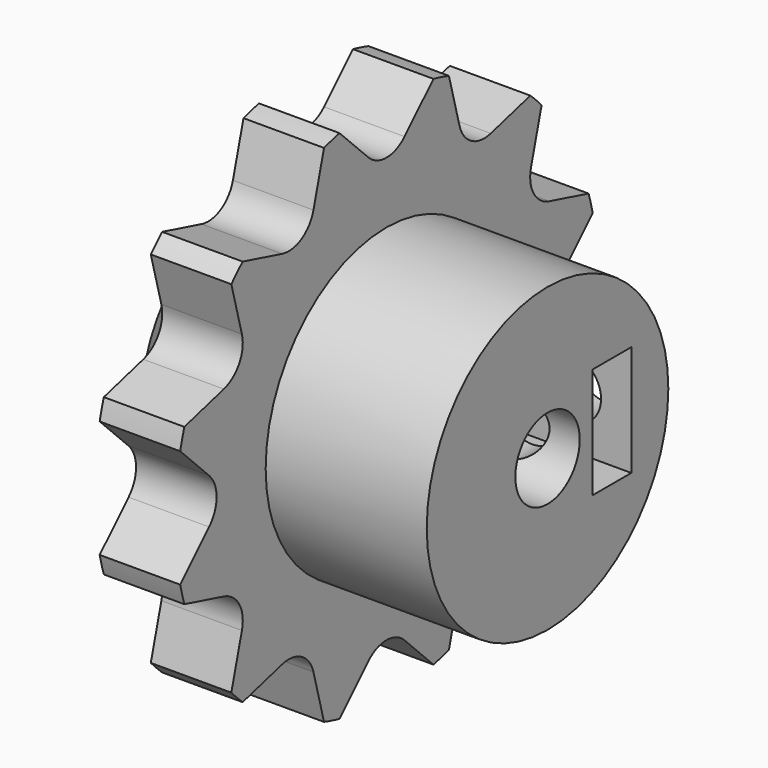
from build123d import *

# Parameters (mm, degrees)
F0_R          = 7.5
F0_R_2        = 2
F1_DEPTH      = 12
F1_DEPTH_BACK = 3
F2_DEPTH      = 4
F3_DEPTH      = 3
F4_SIZE       = 1
F5_W          = 2.4
F5_H          = 5.5
F6_DEPTH      = 7
F7_R          = 1.5
F8_DEPTH      = 10.0078377589
F8_DEPTH_BACK = 1.4781244445


with BuildPart() as f1:
    # F0 (on Right) → F1 (new body, two sides)
    with BuildSketch(Plane.YZ) as f1_sk:
        Circle(F0_R)
        Circle(F0_R_2, mode=Mode.SUBTRACT)
    extrude(amount=F1_DEPTH)
    extrude(f1_sk.sketch, amount=-F1_DEPTH_BACK)

    # F0 (on Right) → F2 (join)
    with BuildSketch(Plane.YZ):
        with BuildLine():
            Line((-1.1225320151, 11.0123179849), (-2.9170517891, 12.8068377589))
            ThreePointArc((-2.9170517891, 12.8068377589), (-3.3995493346, 12.6872908394), (-3.8771779259, 12.5495727359))
            Line((-3.8771779259, 12.5495727359), (-4.5340177508, 10.098213137))
            ThreePointArc((-4.5340177508, 10.098213137), (-5.273675, 9.1342730426), (-6.4783002341, 8.9756811219))
            Line((-6.4783002341, 8.9756811219), (-8.929659833, 9.6325209468))
            ThreePointArc((-8.929659833, 9.6325209468), (-9.2877415049, 9.2877415049), (-9.6325209468, 8.929659833))
            Line((-9.6325209468, 8.929659833), (-8.9756811219, 6.4783002341))
            ThreePointArc((-8.9756811219, 6.4783002341), (-9.1342730426, 5.273675), (-10.098213137, 4.5340177508))
            Line((-10.098213137, 4.5340177508), (-12.5495727359, 3.8771779259))
            ThreePointArc((-12.5495727359, 3.8771779259), (-12.6872908394, 3.3995493346), (-12.8068377589, 2.9170517891))
            Line((-12.8068377589, 2.9170517891), (-11.0123179849, 1.1225320151))
            ThreePointArc((-11.0123179849, 1.1225320151), (-10.54735, 0), (-11.0123179849, -1.1225320151))
            Line((-11.0123179849, -1.1225320151), (-12.8068377589, -2.9170517891))
            ThreePointArc((-12.8068377589, -2.9170517891), (-12.6872908394, -3.3995493346), (-12.5495727359, -3.8771779259))
            Line((-12.5495727359, -3.8771779259), (-10.098213137, -4.5340177508))
            ThreePointArc((-10.098213137, -4.5340177508), (-9.1342730426, -5.273675), (-8.9756811219, -6.4783002341))
            Line((-8.9756811219, -6.4783002341), (-9.6325209468, -8.929659833))
            ThreePointArc((-9.6325209468, -8.929659833), (-9.2877415049, -9.2877415049), (-8.929659833, -9.6325209468))
            Line((-8.929659833, -9.6325209468), (-6.4783002341, -8.9756811219))
            ThreePointArc((-6.4783002341, -8.9756811219), (-5.273675, -9.1342730426), (-4.5340177508, -10.098213137))
            Line((-4.5340177508, -10.098213137), (-3.8771779259, -12.5495727359))
            ThreePointArc((-3.8771779259, -12.5495727359), (-3.3995493346, -12.6872908394), (-2.9170517891, -12.8068377589))
            Line((-2.9170517891, -12.8068377589), (-1.1225320151, -11.0123179849))
            ThreePointArc((-1.1225320151, -11.0123179849), (0, -10.54735), (1.1225320151, -11.0123179849))
            Line((1.1225320151, -11.0123179849), (2.9170517891, -12.8068377589))
            ThreePointArc((2.9170517891, -12.8068377589), (3.3995493346, -12.6872908394), (3.8771779259, -12.5495727359))
            Line((3.8771779259, -12.5495727359), (4.5340177508, -10.098213137))
            ThreePointArc((4.5340177508, -10.098213137), (5.273675, -9.1342730426), (6.4783002341, -8.9756811219))
            Line((6.4783002341, -8.9756811219), (8.929659833, -9.6325209468))
            ThreePointArc((8.929659833, -9.6325209468), (9.2877415049, -9.2877415049), (9.6325209468, -8.929659833))
            Line((9.6325209468, -8.929659833), (8.9756811219, -6.4783002341))
            ThreePointArc((8.9756811219, -6.4783002341), (9.1342730426, -5.273675), (10.098213137, -4.5340177508))
            Line((10.098213137, -4.5340177508), (12.5495727359, -3.8771779259))
            ThreePointArc((12.5495727359, -3.8771779259), (12.6872908394, -3.3995493346), (12.8068377589, -2.9170517891))
            Line((12.8068377589, -2.9170517891), (11.0123179849, -1.1225320151))
            ThreePointArc((11.0123179849, -1.1225320151), (10.54735, 0), (11.0123179849, 1.1225320151))
            Line((11.0123179849, 1.1225320151), (12.8068377589, 2.9170517891))
            ThreePointArc((12.8068377589, 2.9170517891), (12.6872908394, 3.3995493346), (12.5495727359, 3.8771779259))
            Line((12.5495727359, 3.8771779259), (10.098213137, 4.5340177508))
            ThreePointArc((10.098213137, 4.5340177508), (9.1342730426, 5.273675), (8.9756811219, 6.4783002341))
            Line((8.9756811219, 6.4783002341), (9.6325209468, 8.929659833))
            ThreePointArc((9.6325209468, 8.929659833), (9.2877415049, 9.2877415049), (8.929659833, 9.6325209468))
            Line((8.929659833, 9.6325209468), (6.4783002341, 8.9756811219))
            ThreePointArc((6.4783002341, 8.9756811219), (5.273675, 9.1342730426), (4.5340177508, 10.098213137))
            Line((4.5340177508, 10.098213137), (3.8771779259, 12.5495727359))
            ThreePointArc((3.8771779259, 12.5495727359), (3.3995493346, 12.6872908394), (2.9170517891, 12.8068377589))
            Line((2.9170517891, 12.8068377589), (1.1225320151, 11.0123179849))
            ThreePointArc((1.1225320151, 11.0123179849), (0, 10.54735), (-1.1225320151, 11.0123179849))
        make_face()
        Circle(F0_R, mode=Mode.SUBTRACT)
        Circle(F0_R_2)
    extrude(amount=F2_DEPTH)

    # F3 (add): a face of the model
    f3_faces = [f1.faces().sort_by_distance(p)[0] for p in [
        (0, 0, 0),
    ]]
    extrude(f3_faces, amount=F3_DEPTH)

    # F4
    f4_edges = [f1.edges().sort_by_distance(p)[0] for p in [
        (-3, -7.5, 0),
    ]]
    chamfer(f4_edges, length=F4_SIZE)

    # F5 (on face) → F6 (cut)
    with BuildSketch(Plane.YZ.offset(12)):
        with Locations((4, 0)):
            Rectangle(F5_W, F5_H)
    extrude(amount=-F6_DEPTH, mode=Mode.SUBTRACT)

    # F7 (on face) → F8 (cut, two sides)
    with BuildSketch(Plane(origin=(0, 2.8, 0), x_dir=(-1, 0, 0), z_dir=(0, 1, 0))) as f8_sk:
        with Locations((-9, 0)):
            Circle(F7_R)
    extrude(amount=F8_DEPTH, mode=Mode.SUBTRACT)
    extrude(f8_sk.sketch, amount=-F8_DEPTH_BACK, mode=Mode.SUBTRACT)


solid = f1.part
